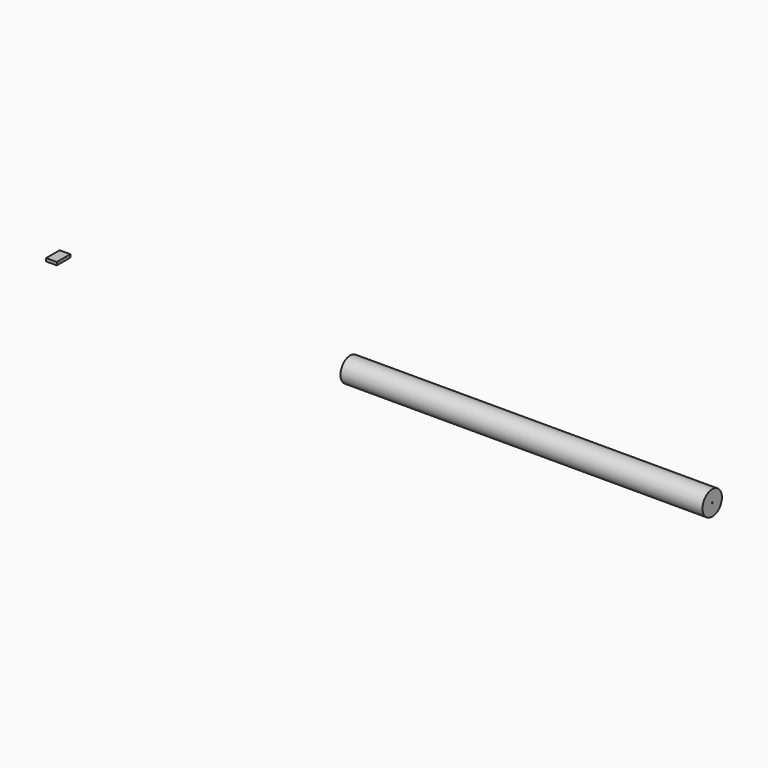
from build123d import *

# Parameters (mm, degrees)
F0_W     = 90.6293261796
F0_H     = 143.0367194116
F1_DEPTH = 25.4
F2_W     = 3060.5840682983
F2_H     = 102.4279408157
F3_DEPTH = 25.4
F4_R     = 5.08
F5_R     = 5.08


with BuildPart() as f1:
    # F0 (on Top) → F1 (new body)
    with BuildSketch(Plane.XY):
        with Locations((16.4367323741, -29.5125786215)):
            Rectangle(F0_W, F0_H)
    extrude(amount=F1_DEPTH)


with BuildPart() as f3:
    # F2 (on face) → F3 (new body)
    with BuildSketch(Plane(origin=(0, 0, 0), x_dir=(1, 0, 0), z_dir=(0, 0, -1))):
        with Locations((4024.7750282288, -9.6091311425)):
            Rectangle(F2_W, F2_H)
    extrude(amount=F3_DEPTH)

    # F4
    f4_edges = [f3.edges().sort_by_distance(p)[0] for p in [
        (4024.775028, 60.823102, -25.4),
    ]]
    fillet(f4_edges, radius=F4_R)

    # F5
    f5_edges = [f3.edges().sort_by_distance(p)[0] for p in [
        (4024.775028, 60.823102, 0),
        (5555.067062, 9.609131, 0),
        (4024.775028, -41.604839, 0),
        (2494.482994, 9.609131, 0),
        (5555.067062, -41.604839, -12.7),
        (2494.482994, -41.604839, -12.7),
        (4024.775028, -41.604839, -25.4),
        (2494.482994, 59.335204, -23.912102),
        (4024.775028, 60.823102, -20.32),
        (4024.775028, 55.743102, -25.4),
        (5555.067062, 59.335204, -23.912102),
        (2494.482994, 60.823102, -10.16),
        (5555.067062, 60.823102, -10.16),
        (5555.067062, 7.069131, -25.4),
        (2494.482994, 7.069131, -25.4),
    ]]
    fillet(f5_edges, radius=F5_R)


with BuildPart() as f6:
    # F2 (on face) → F6 (revolve)
    with BuildSketch(Plane(origin=(0, 0, 0), x_dir=(1, 0, 0), z_dir=(0, 0, -1))):
        with Locations((4024.7750282288, -9.6091311425)):
            Rectangle(F2_W, F2_H)
    revolve(axis=Axis((4024.7750282288, -41.6048392653, -5.08), (-1, 0, 0)))


solid = Compound([f1.part, f3.part, f6.part])
